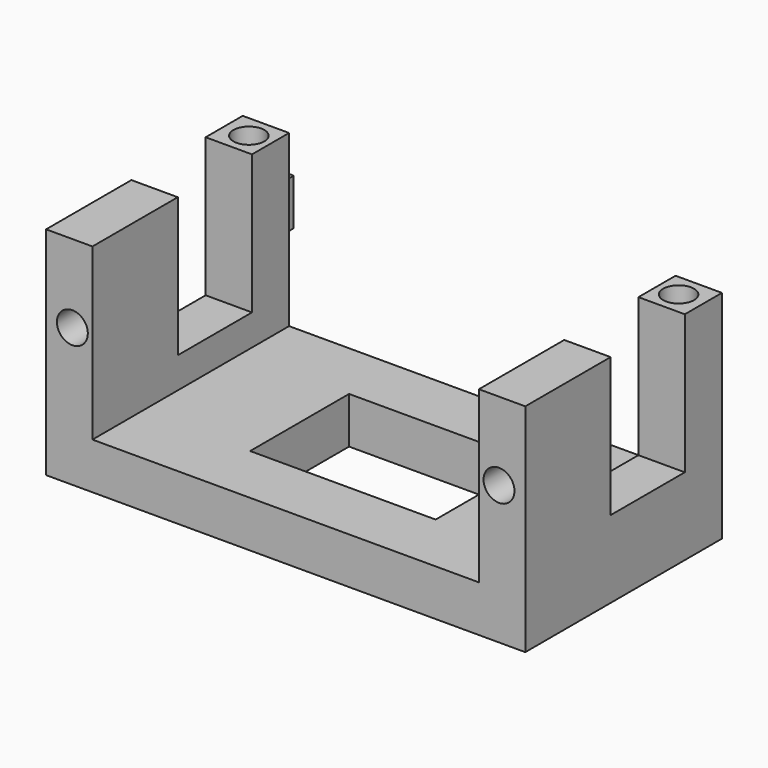
from build123d import *

# Parameters (mm, degrees)
F0_W      = 3
F0_H      = 11
F1_DEPTH  = 15.9
F2_W      = 6
F2_H      = 9
F3_DEPTH  = 31.001
F4_R      = 1
F5_DEPTH  = 6.9
F6_R      = 1.05
F7_DEPTH  = 4
F8_W      = 3
F8_H      = 1
F8_W_2    = 1
F8_H_2    = 3
F9_DEPTH  = 1
F10_R     = 1
F11_DEPTH = 3
F12_W     = 12
F12_H     = 8
F13_DEPTH = 3


with BuildPart() as f1:
    # F0 (on Front) → F1 (new body)
    with BuildSketch(Plane.XZ):
        with Locations((1.5, 8.5)):
            Rectangle(F0_W, F0_H)
        Polygon((3, 3), (0, 3), (0, 0), (31, 0), (31, 3), (28, 3), align=None)
        with Locations((29.5, 8.5)):
            Rectangle(F0_W, F0_H)
    extrude(amount=F1_DEPTH)

    # F2 (on face) → F3 (cut, through all)
    with BuildSketch(Plane.YZ.offset(31)):
        with Locations((-6, 9.5)):
            Rectangle(F2_W, F2_H)
    extrude(amount=-F3_DEPTH, mode=Mode.SUBTRACT)

    # F4 (on face) → F5 (cut, through all)
    with BuildSketch(Plane.XZ.offset(15.9)):
        with Locations((1.7, 8.95)):
            Circle(F4_R)
        with Locations((29.3, 8.95)):
            Circle(F4_R)
    extrude(amount=-F5_DEPTH, mode=Mode.SUBTRACT)

    # F6 (on face) → F7 (cut)
    with BuildSketch(Plane(origin=(0, 0, 0), x_dir=(-1, 0, 0), z_dir=(0, 1, 0))):
        with Locations((-26, 1.5)):
            Circle(F6_R)
        with Locations((-5, 1.5)):
            Circle(F6_R)
    extrude(amount=-F7_DEPTH, mode=Mode.SUBTRACT)

    # F8 (on face) → F9 (join)
    with BuildSketch(Plane(origin=(0, 0, 0), x_dir=(-1, 0, 0), z_dir=(0, 1, 0))):
        with Locations((-20.5, 1.5)):
            Rectangle(F8_W, F8_H)
        with Locations((-10.5, 1.5)):
            Rectangle(F8_W, F8_H)
        with Locations((-29, 9.5)):
            Rectangle(F8_W_2, F8_H_2)
        with Locations((-2, 9.5)):
            Rectangle(F8_W_2, F8_H_2)
    extrude(amount=F9_DEPTH)

    # F10 (on face) → F11 (cut)
    with BuildSketch(Plane.XY.offset(14)):
        with Locations((29.4, -1.5)):
            Circle(F10_R)
        with Locations((1.6, -1.5)):
            Circle(F10_R)
    extrude(amount=-F11_DEPTH, mode=Mode.SUBTRACT)

    # F12 (on face) → F13 (cut, through all)
    with BuildSketch(Plane.XY.offset(3)):
        with Locations((16, -7.9)):
            Rectangle(F12_W, F12_H)
    extrude(amount=-F13_DEPTH, mode=Mode.SUBTRACT)


solid = f1.part
